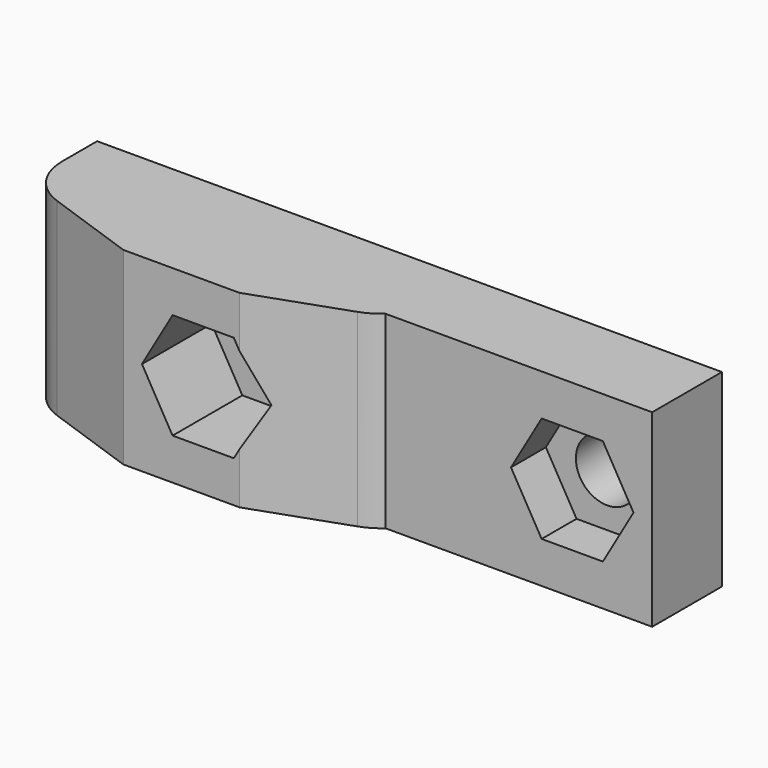
from build123d import *

# Parameters (mm, degrees)
F0_R     = 1.45
F1_DEPTH = 13
F2_R     = 2.15
F3_DEPTH = 9.001
F4_DEPTH = 3
F5_DEPTH = 7.7


with BuildPart() as f1:
    # F0 (on Top) → F1 (new body)
    with BuildSketch(Plane.XY):
        with BuildLine():
            Line((17, -3), (17, 3))
            Line((17, 3), (-26, 3))
            Line((-26, 3), (-26, 0))
            ThreePointArc((-26, 0), (-25.2642971497, -2.3117880782), (-23.3278179407, -3.7731816172))
            Line((-23.3278179407, -3.7731816172), (-17, -6))
            Line((-17, -6), (-9, -6))
            Line((-9, -6), (-2.6721820593, -3.7731816172))
            ThreePointArc((-2.6721820593, -3.7731816172), (-1.9759531619, -3.4501064327), (-1.3542486889, -3))
            Line((-1.3542486889, -3), (17, -3))
        make_face()
        with Locations((-22, 0)):
            Circle(F0_R, mode=Mode.SUBTRACT)
        with Locations((-4, 0)):
            Circle(F0_R, mode=Mode.SUBTRACT)
        with Locations((-22, 0)):
            Circle(F0_R)
        with Locations((-4, 0)):
            Circle(F0_R)
    extrude(amount=F1_DEPTH)

    # F2 (on face) → F3 (cut, through all)
    with BuildSketch(Plane(origin=(0, 3, 0), x_dir=(-1, 0, 0), z_dir=(0, 1, 0))):
        Polygon((-9.3926715175, 10.15), (-13.6073284825, 10.15), (-15.7146569651, 6.5), (-13.6073284825, 2.85), (-9.3926715175, 2.85), (-7.2853430349, 6.5), align=None)
        with Locations((-11.5, 6.5)):
            Circle(F2_R, mode=Mode.SUBTRACT)
        Polygon((7.2853430349, 6.5), (9.3926715175, 2.85), (13.6073284825, 2.85), (15.7146569651, 6.5), (13.6073284825, 10.15), (9.3926715175, 10.15), align=None)
        with Locations((11.5, 6.5)):
            Circle(F2_R, mode=Mode.SUBTRACT)
        with Locations((-11.5, 6.5)):
            Circle(F2_R)
        with Locations((11.5, 6.5)):
            Circle(F2_R)
    extrude(amount=-F3_DEPTH, mode=Mode.SUBTRACT)

    # F2 (on face) → F4 (join)
    with BuildSketch(Plane(origin=(0, 3, 0), x_dir=(-1, 0, 0), z_dir=(0, 1, 0))):
        Polygon((-9.3926715175, 10.15), (-13.6073284825, 10.15), (-15.7146569651, 6.5), (-13.6073284825, 2.85), (-9.3926715175, 2.85), (-7.2853430349, 6.5), align=None)
        with Locations((-11.5, 6.5)):
            Circle(F2_R, mode=Mode.SUBTRACT)
        Polygon((7.2853430349, 6.5), (9.3926715175, 2.85), (13.6073284825, 2.85), (15.7146569651, 6.5), (13.6073284825, 10.15), (9.3926715175, 10.15), align=None)
        with Locations((11.5, 6.5)):
            Circle(F2_R, mode=Mode.SUBTRACT)
    extrude(amount=-F4_DEPTH)

    # F0 (on Top) → F5 (cut)
    with BuildSketch(Plane.XY):
        with Locations((-4, 0)):
            Circle(F0_R)
        with Locations((-22, 0)):
            Circle(F0_R)
    extrude(amount=F5_DEPTH, mode=Mode.SUBTRACT)


solid = f1.part
